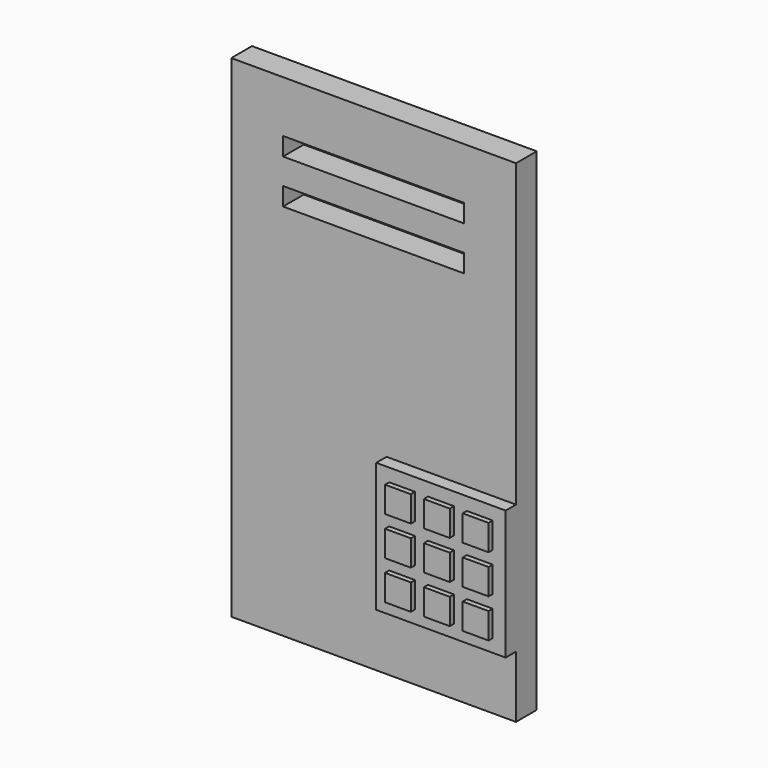
from build123d import *

# Parameters (mm, degrees)
F0_W     = 279.4
F0_H     = 482.6
F1_DEPTH = 25.4
F2_W     = 177.8
F2_H     = 17.78
F3_DEPTH = 25.4
F4_W     = 25.4
F4_H     = 25.4
F5_DEPTH = 17.78
F4_W_2   = 127
F4_H_2   = 127
F6_DEPTH = 12.7


with BuildPart() as f1:
    # F0 (on Front) → F1 (new body)
    with BuildSketch(Plane.XZ):
        with Locations((-3.365506, 53.583339)):
            Rectangle(F0_W, F0_H)
    extrude(amount=F1_DEPTH)

    # F2 (on face) → F3 (cut)
    with BuildSketch(Plane.XZ.offset(25.4)):
        with Locations((-3.365506, 235.193339)):
            Rectangle(F2_W, F2_H)
        with Locations((-3.365506, 192.013339)):
            Rectangle(F2_W, F2_H)
    extrude(amount=-F3_DEPTH, mode=Mode.SUBTRACT)

    # F4 (on face) → F5 (join)
    with BuildSketch(Plane.XZ.offset(25.4)):
        with Locations((34.734494, -101.6)):
            Rectangle(F4_W, F4_H)
        with Locations((72.834494, -101.6)):
            Rectangle(F4_W, F4_H)
        with Locations((110.934494, -101.6)):
            Rectangle(F4_W, F4_H)
        with Locations((110.934494, -63.5)):
            Rectangle(F4_W, F4_H)
        with Locations((72.834494, -63.5)):
            Rectangle(F4_W, F4_H)
        with Locations((34.734494, -63.5)):
            Rectangle(F4_W, F4_H)
        with Locations((34.734494, -25.4)):
            Rectangle(F4_W, F4_H)
        with Locations((72.834494, -25.4)):
            Rectangle(F4_W, F4_H)
        with Locations((110.934494, -25.4)):
            Rectangle(F4_W, F4_H)
    extrude(amount=F5_DEPTH)

    # F4 (on face) → F6 (join)
    with BuildSketch(Plane.XZ.offset(25.4)):
        with Locations((72.834494, -63.5)):
            Rectangle(F4_W_2, F4_H_2)
        with Locations((34.734494, -101.6)):
            Rectangle(F4_W, F4_H, mode=Mode.SUBTRACT)
        with Locations((72.834494, -101.6)):
            Rectangle(F4_W, F4_H, mode=Mode.SUBTRACT)
        with Locations((110.934494, -101.6)):
            Rectangle(F4_W, F4_H, mode=Mode.SUBTRACT)
        with Locations((34.734494, -63.5)):
            Rectangle(F4_W, F4_H, mode=Mode.SUBTRACT)
        with Locations((34.734494, -25.4)):
            Rectangle(F4_W, F4_H, mode=Mode.SUBTRACT)
        with Locations((72.834494, -63.5)):
            Rectangle(F4_W, F4_H, mode=Mode.SUBTRACT)
        with Locations((72.834494, -25.4)):
            Rectangle(F4_W, F4_H, mode=Mode.SUBTRACT)
        with Locations((110.934494, -63.5)):
            Rectangle(F4_W, F4_H, mode=Mode.SUBTRACT)
        with Locations((110.934494, -25.4)):
            Rectangle(F4_W, F4_H, mode=Mode.SUBTRACT)
    extrude(amount=F6_DEPTH)


solid = f1.part
